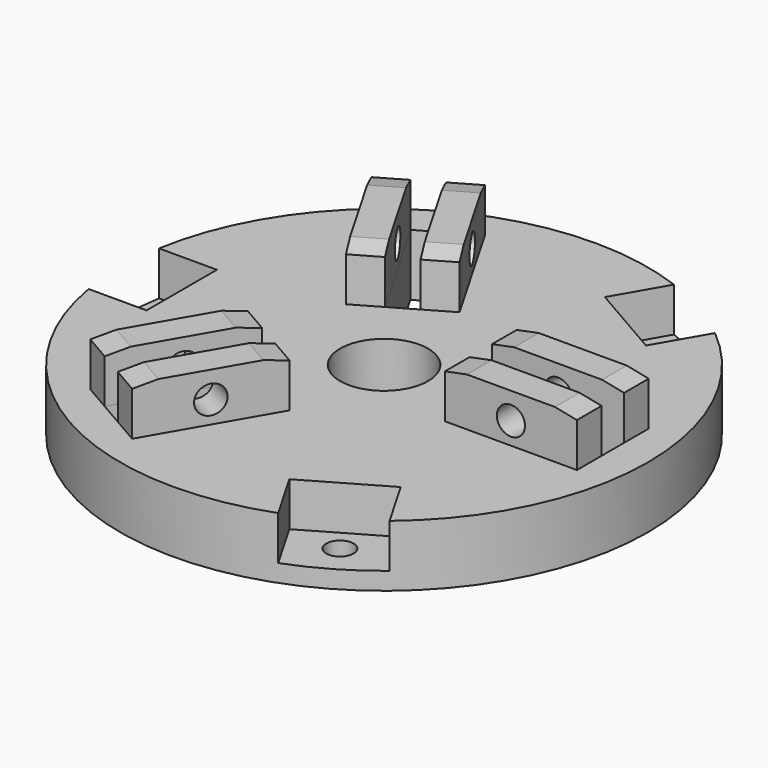
from build123d import *

# Parameters (mm, degrees)
F0_R      = 30
F0_R_2    = 1.55
F0_W      = 15
F0_H      = 3.2
F1_DEPTH  = 7
F3_R      = 1.6
F4_DEPTH  = 3.5
F7_COUNT  = 3
F8_R      = 5
F9_DEPTH  = 25
F11_DEPTH = 5


with BuildPart() as f1:
    # F0 (on Top) → F1 (new body)
    with BuildSketch(Plane.XY):
        Circle(F0_R)
        Polygon((-4.1143593539, -10.3262794416), (-11.6143593539, -23.3166604984), (-14.3856406461, -21.7166604984), (-6.8856406461, -8.7262794416), align=None, mode=Mode.SUBTRACT)
        with Locations((13, -22.5166604984)):
            Circle(F0_R_2, mode=Mode.SUBTRACT)
        with Locations((-26, 0)):
            Circle(F0_R_2, mode=Mode.SUBTRACT)
        Polygon((-6.8856406461, 8.7262794416), (-14.3856406461, 21.7166604984), (-11.6143593539, 23.3166604984), (-4.1143593539, 10.3262794416), align=None, mode=Mode.SUBTRACT)
        with Locations((18.5, 0)):
            Rectangle(F0_W, F0_H, mode=Mode.SUBTRACT)
        with Locations((13, 22.5166604984)):
            Circle(F0_R_2, mode=Mode.SUBTRACT)
    extrude(amount=F1_DEPTH)

    # F3 (on offset) → F4 (join)
    with BuildSketch(Plane.XZ.offset(1.6)):
        Polygon((11, 7), (26, 7), (26, 12), (23.5, 12.5), (13.5, 12.5), (11, 12), align=None)
        with Locations((18.5, 9.5)):
            Circle(F3_R, mode=Mode.SUBTRACT)
    extrude(amount=F4_DEPTH)

    # F5: F1 across plane


with BuildPart() as f1_1:
    add(f1.part)
    add(f1.part.mirror(Plane.XZ))

    # F7: F1 ×3 about axis
    f7_axis = Axis((0, 0, 17.4874160439), (0, 0, 1))


with BuildPart() as f1_2:
    add(f1_1.part)
    for i in range(1, F7_COUNT):
        add(f1_1.part.rotate(f7_axis, i * 360 / F7_COUNT))

    # F8 (on face) → F9 (cut)
    with BuildSketch(Plane.XY.offset(7)):
        Circle(F8_R)
    extrude(amount=-F9_DEPTH, mode=Mode.SUBTRACT)

    # F10 (on face) → F11 (cut)
    with BuildSketch(Plane.XY.offset(7)):
        Polygon((-30, 5), (-30, 0), (-30, -5), (-23, -5), (-23, 0), (-23, 5), align=None)
        Polygon((11.5, -19.918584287), (7.1698729811, -22.418584287), (10.6698729811, -28.4807621135), (15, -25.9807621135), (19.3301270189, -23.4807621135), (15.8301270189, -17.418584287), align=None)
        Polygon((11.5, 19.918584287), (15.8301270189, 17.418584287), (19.3301270189, 23.4807621135), (15, 25.9807621135), (10.6698729811, 28.4807621135), (7.1698729811, 22.418584287), align=None)
    extrude(amount=-F11_DEPTH, mode=Mode.SUBTRACT)


solid = f1_2.part
